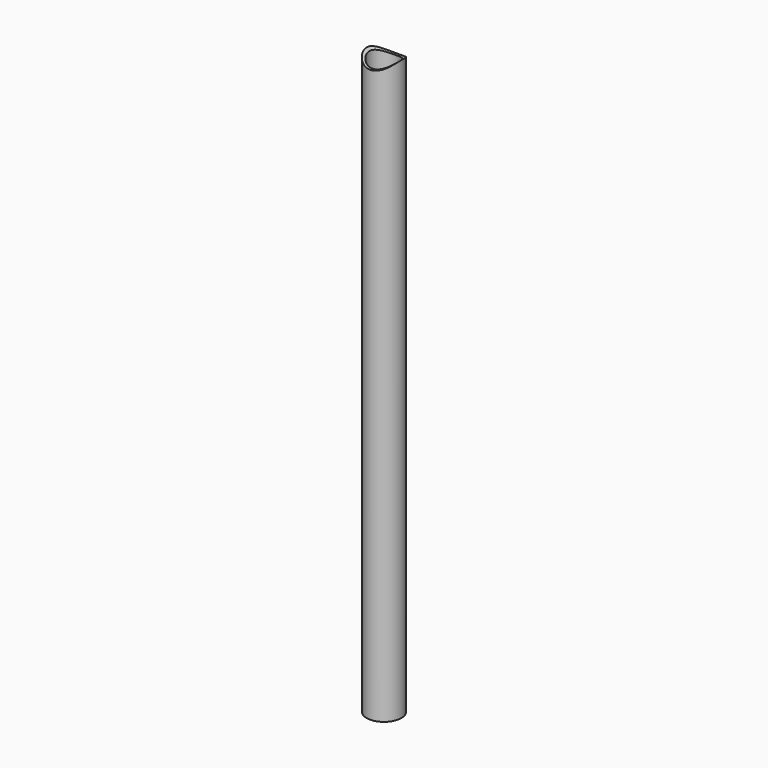
from build123d import *

# Parameters (mm, degrees)
F0_R     = 18.9
F0_R_2   = 15.9
F1_DEPTH = 649.692
F5_R     = 27
F6_DEPTH = 50


with BuildPart() as f1:
    # F0 (on Top) → F1 (new body)
    with BuildSketch(Plane.XY):
        Circle(F0_R)
        Circle(F0_R_2, mode=Mode.SUBTRACT)
    extrude(amount=F1_DEPTH)

    # F5 (on face) → F6 (cut, symmetric)
    with BuildSketch(Plane.XZ):
        with Locations((0, 649.692)):
            Circle(F5_R)
    extrude(amount=F6_DEPTH, both=True, mode=Mode.SUBTRACT)


solid = f1.part
